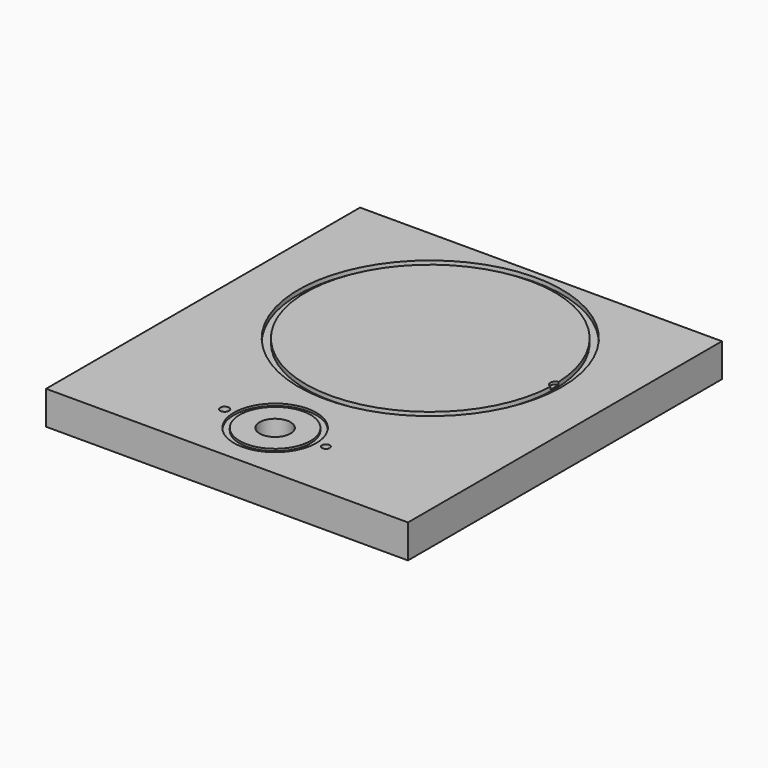
from build123d import *

# Parameters (mm, degrees)
CYLINDER163_R     = 2.58
CYLINDER163_DEPTH = 29
CYLINDER161_R     = 72.517
CYLINDER161_DEPTH = 3
CYLINDER160_R     = 76.708
CYLINDER160_DEPTH = 3
CYLINDER162_R     = 3.02
CYLINDER162_DEPTH = 2
CYLINDER159_R     = 9
CYLINDER159_DEPTH = 21
CYLINDER158_R     = 20.635
CYLINDER158_DEPTH = 41.275
CYLINDER157_R     = 24
CYLINDER157_DEPTH = 3.175
CYLINDER164_R     = 2.28
CYLINDER164_DEPTH = 29
BOX_W             = 210.82
BOX_H             = 228.6
BOX_DEPTH         = 19.5


with BuildPart() as cylinder015:
    # Cylinder163 → Cylinder163 (new body)
    with BuildSketch(Plane(origin=(76, 35, 14), x_dir=(1, 0, 0), z_dir=(0, 0, 1))):
        Circle(CYLINDER163_R)
    extrude(amount=CYLINDER163_DEPTH)


with BuildPart() as cylinder013:
    # Cylinder161 → Cylinder161 (new body)
    with BuildSketch(Plane(origin=(105.41, 148, 17), x_dir=(1, 0, 0), z_dir=(0, 0, 1))):
        Circle(CYLINDER161_R)
    extrude(amount=CYLINDER161_DEPTH)


with BuildPart() as cut021:
    # Cylinder160 → Cylinder160 (new body)
    with BuildSketch(Plane(origin=(105.41, 148, 17), x_dir=(1, 0, 0), z_dir=(0, 0, 1))):
        Circle(CYLINDER160_R)
    extrude(amount=CYLINDER160_DEPTH)

    # Cut021: cut Cylinder013
    add(cylinder013.part, mode=Mode.SUBTRACT)


with BuildPart() as cylinder014:
    # Cylinder162 → Cylinder162 (new body)
    with BuildSketch(Plane(origin=(178.41, 148, 18), x_dir=(1, 0, 0), z_dir=(0, 0, 1))):
        Circle(CYLINDER162_R)
    extrude(amount=CYLINDER162_DEPTH)


with BuildPart() as cylinder011:
    # Cylinder159 → Cylinder159 (new body)
    with BuildSketch(Plane(origin=(105.41, 35, 0), x_dir=(1, 0, 0), z_dir=(0, 0, 1))):
        Circle(CYLINDER159_R)
    extrude(amount=CYLINDER159_DEPTH)


with BuildPart() as cylinder010:
    # Cylinder158 → Cylinder158 (new body)
    with BuildSketch(Plane.XY):
        Circle(CYLINDER158_R)
    extrude(amount=CYLINDER158_DEPTH)


with BuildPart() as cut020:
    # Cylinder157 → Cylinder157 (new body)
    with BuildSketch(Plane.XY):
        Circle(CYLINDER157_R)
    extrude(amount=CYLINDER157_DEPTH)

    # Cut020: cut Cylinder010
    add(cylinder010.part, mode=Mode.SUBTRACT)


with BuildPart() as cut020_1:
    # Cut020 placement: moved
    add(cut020.part.moved(Location((105.41, 35, 18.25))))


with BuildPart() as fusion058:
    # Cylinder164 → Cylinder164 (new body)
    with BuildSketch(Plane(origin=(135, 35, 14), x_dir=(1, 0, 0), z_dir=(0, 0, 1))):
        Circle(CYLINDER164_R)
    extrude(amount=CYLINDER164_DEPTH)

    # Fusion058: union Cylinder015, Cut021, Cylinder014, Cylinder011, Cut020
    add(cylinder015.part)
    add(cut021.part)
    add(cylinder014.part)
    add(cylinder011.part)
    add(cut020_1.part)


with BuildPart() as base_cut022:
    # Box → Box (new body)
    with BuildSketch(Plane.XY):
        with Locations((105.41, 114.3)):
            Rectangle(BOX_W, BOX_H)
    extrude(amount=BOX_DEPTH)

    # Cut022: cut Fusion058
    add(fusion058.part, mode=Mode.SUBTRACT)


solid = base_cut022.part
